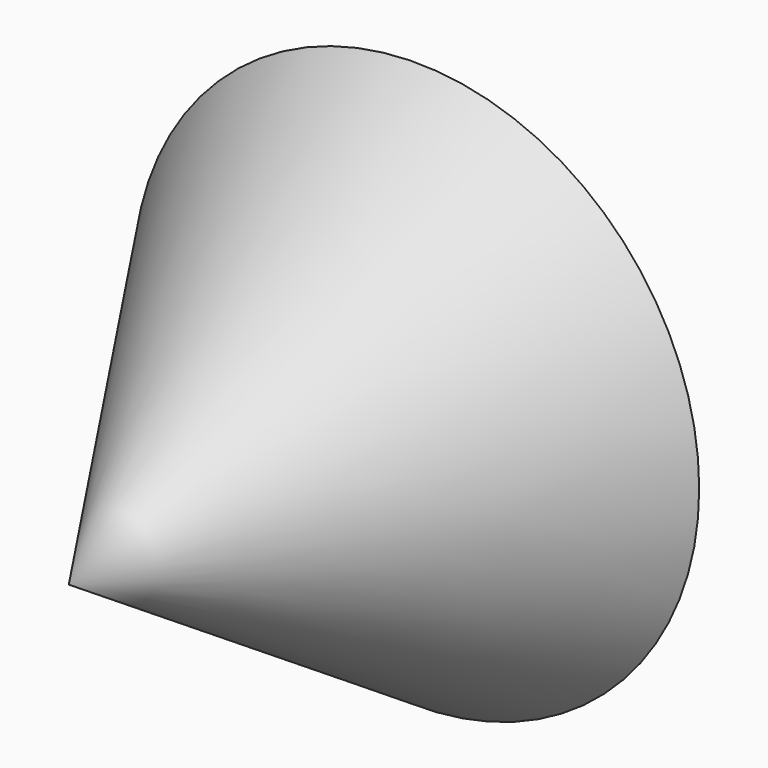
from build123d import *

# Parameters (mm, degrees)
F0_R = 39.5


with BuildPart() as f2:
    # F0 (on Front) → F2 section 0
    with BuildSketch(Plane.XZ, mode=Mode.PRIVATE) as f2_s0:
        Circle(F0_R)
    loft([f2_s0.sketch, Vertex(0, -60.613751, 0)])


solid = f2.part
